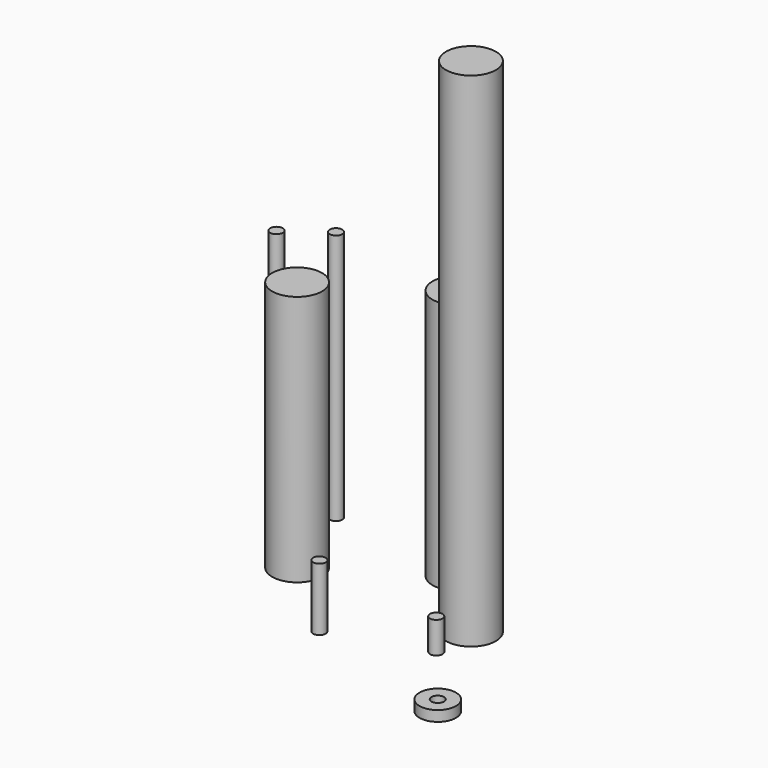
from build123d import *

# Parameters (mm, degrees)
F0_R     = 5.0419
F1_DEPTH = 101.6
F2_R     = 5.0419
F2_R_2   = 1.27
F3_DEPTH = 50.8
F4_R     = 1.27
F5_DEPTH = 6.35
F6_R     = 3.683
F6_R_2   = 1.27
F7_DEPTH = 2.1082
F8_R     = 1.27
F9_DEPTH = 12.7


with BuildPart() as f1:
    # F0 (on Top) → F1 (new body)
    with BuildSketch(Plane.XY):
        Circle(F0_R)
    extrude(amount=F1_DEPTH)


with BuildPart() as f3:
    # F2 (on Top) → F3 (new body)
    with BuildSketch(Plane.XY):
        with Locations((-35.128241, 0)):
            Circle(F2_R)
        with Locations((-13.589485, 13.589485)):
            Circle(F2_R)
        with Locations((-41.073836, 17.254066)):
            Circle(F2_R_2)
        with Locations((-48.708379, 11.757195)):
            Circle(F2_R_2)
    extrude(amount=F3_DEPTH)


with BuildPart() as f5:
    # F4 (on Top) → F5 (new body)
    with BuildSketch(Plane.XY):
        with Locations((0, -8.75725)):
            Circle(F4_R)
    extrude(amount=F5_DEPTH)


with BuildPart() as f7:
    # F6 (on Top) → F7 (new body)
    with BuildSketch(Plane.XY):
        with Locations((12.832678, -24.425155)):
            Circle(F6_R)
        with Locations((12.832678, -24.425155)):
            Circle(F6_R_2, mode=Mode.SUBTRACT)
    extrude(amount=F7_DEPTH)


with BuildPart() as f9:
    # F8 (on Top) → F9 (new body)
    with BuildSketch(Plane.XY):
        with Locations((-18.780973, -14.811012)):
            Circle(F8_R)
    extrude(amount=F9_DEPTH)


solid = Compound([f1.part, f3.part, f5.part, f7.part, f9.part])
